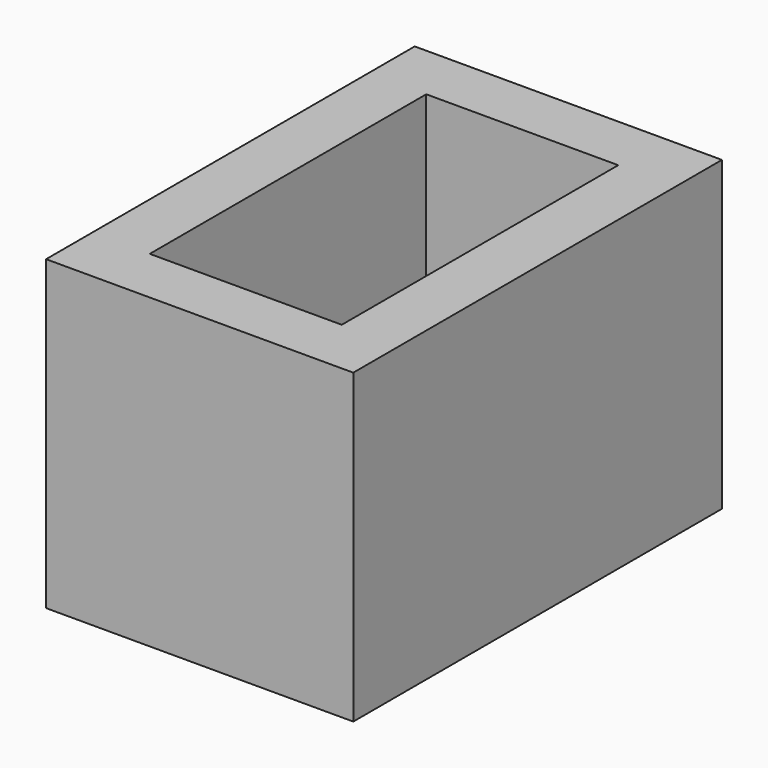
from build123d import *

# Parameters (mm, degrees)
F0_W          = 203.2
F0_H          = 203.2
F1_DEPTH      = 304.8
F2_W          = 127
F2_H          = 228.6
F3_DEPTH      = 25.4
F3_DEPTH_BACK = 203.2


with BuildPart() as f1:
    # F0 (on Front) → F1 (new body)
    with BuildSketch(Plane.XZ):
        Rectangle(F0_W, F0_H)
        Rectangle(F0_W, F0_H)
    extrude(amount=-F1_DEPTH)

    # F2 (on face) → F3 (cut, two sides)
    with BuildSketch(Plane.XY.offset(101.6)) as f3_sk:
        with Locations((0, 152.4)):
            Rectangle(F2_W, F2_H)
    extrude(amount=F3_DEPTH, mode=Mode.SUBTRACT)
    extrude(f3_sk.sketch, amount=-F3_DEPTH_BACK, mode=Mode.SUBTRACT)


solid = f1.part
